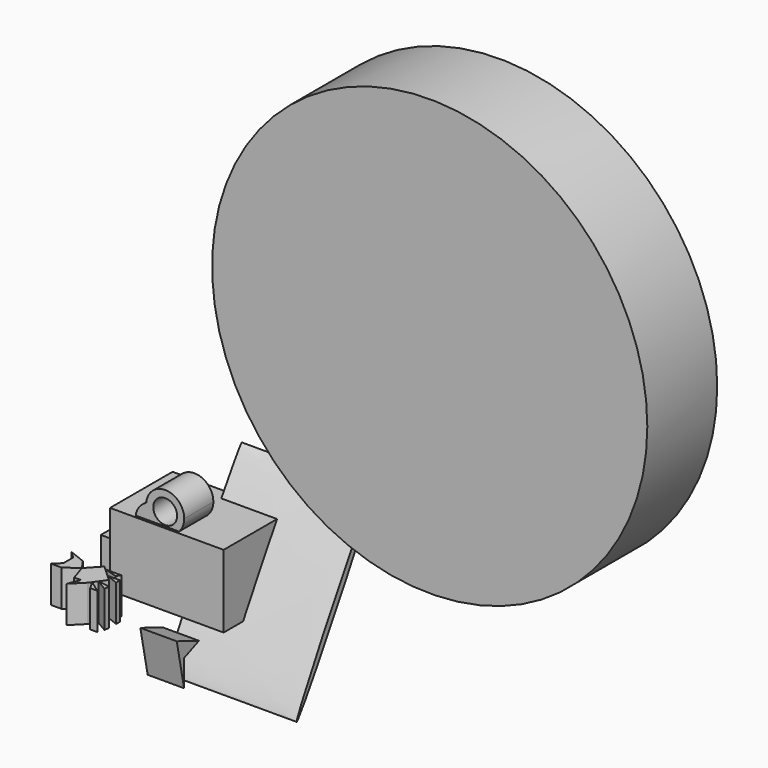
from build123d import *

# Parameters (mm, degrees)
F0_W      = 78.0171081424
F0_H      = 53.7091065198
F1_DEPTH  = 50
F2_W      = 43.2913936675
F2_H      = 23.38198293
F3_DEPTH  = 25
F4_R      = 16.1622843201
F5_DEPTH  = 25
F6_W      = 29.7429226339
F6_H      = 35.126041621
F7_DEPTH  = 25
F1_FACE_W = 78.0171081424
F1_FACE_H = 50
F9_DEPTH  = 25
F11_DEPTH = 25
F13_DEPTH = 25
F15_DEPTH = 90
F16_R     = 149.4362967726
F17_DEPTH = 30
F19_DEPTH = 30


with BuildPart() as f1:
    # F0 (on Top) → F1 (new body)
    with BuildSketch(Plane.XY):
        with Locations((-0.7131882012, 0.1975884661)):
            Rectangle(F0_W, F0_H)
    extrude(amount=F1_DEPTH)

    # F2 (on Top) → F3 (cut)
    with BuildSketch(Plane.XY):
        with Locations((1.2593660504, -0.1119184308)):
            Rectangle(F2_W, F2_H)
    extrude(amount=F3_DEPTH, mode=Mode.SUBTRACT)

    # F6 (on Top) → F7 (join)
    with BuildSketch(Plane.XY):
        with Locations((-39.1089785844, 0.8506774902)):
            Rectangle(F6_W, F6_H)
    extrude(amount=F7_DEPTH)

    # F8 (on Front) + F1_face (on face) → F9 (join)
    with BuildSketch(Plane.XZ):
        with BuildLine():
            ThreePointArc((3.3052529521, 47.6262945357), (8.1429830955, 52.4153057463), (9.915911021, 58.9875951409))
            ThreePointArc((9.915911021, 58.9875951409), (-2.6518951553, 72.046294914), (-16.1823284794, 59.9878221287))
            ThreePointArc((-16.1823284794, 59.9878221287), (-13.6492071487, 60.9517573762), (-10.9743377972, 61.3887342513))
            ThreePointArc((-10.9743377972, 61.3887342513), (-1.9383692631, 67.079241852), (5.0298340639, 58.9875951409))
            ThreePointArc((5.0298340639, 58.9875951409), (4.3308110545, 55.678445285), (2.3531799715, 52.9347103786))
            ThreePointArc((2.3531799715, 52.9347103786), (3.068034148, 50.4889118941), (3.3091991882, 47.9522238677))
            ThreePointArc((3.3091991882, 47.9522238677), (3.308212593, 47.7892472572), (3.3052529521, 47.6262945357))
        make_face()
        with BuildLine():
            ThreePointArc((-10.9743377972, 61.3887342513), (-13.6492071487, 60.9517573762), (-16.1823284794, 59.9878221287))
            ThreePointArc((-16.1823284794, 59.9878221287), (-10.1524259154, 47.9522238677), (3.3052529521, 47.6262945357))
            ThreePointArc((3.3052529521, 47.6262945357), (3.308212593, 47.7892472572), (3.3091991882, 47.9522238677))
            ThreePointArc((3.3091991882, 47.9522238677), (3.068034148, 50.4889118941), (2.3531799715, 52.9347103786))
            ThreePointArc((2.3531799715, 52.9347103786), (-7.5351904678, 52.0782178864), (-10.9743377972, 61.3887342513))
        make_face()
        with BuildLine():
            ThreePointArc((3.3052529521, 47.6262945357), (-10.1524259154, 47.9522238677), (-16.1823284794, 59.9878221287))
            ThreePointArc((-16.1823284794, 59.9878221287), (-17.3631683399, 36.5847024087), (3.3052529521, 47.6262945357))
        make_face()
    with BuildSketch(Plane(origin=(-0.7131882012, 27.052141726, 25), x_dir=(-1, 0, 0), z_dir=(0, 1, 0))):
        Rectangle(F1_FACE_W, F1_FACE_H)
    extrude(amount=F9_DEPTH, dir=(0, -1, 0))

    # F14 (on Right) → F15 (join)
    with BuildSketch(Plane.YZ):
        with BuildLine():
            add(Edge.make_bspline(
                [(-28.6080688917, -36.4129050816), (-25.2024638091, -38.386493406), (22.2351358673, 47.396507483), (69.6727355437, 133.1795083721), (18.8295307847, 49.3700958075), (-32.0136739743, -34.4393167572), (-28.6080688917, -36.4129050816)],
                knots=[0, 0, 0, 2.0943951024, 2.0943951024, 4.1887902048, 4.1887902048, 6.2831853072, 6.2831853072, 6.2831853072], degree=2, weights=[1, 0.5, 1, 0.5, 1, 0.5, 1]))
        make_face()
    extrude(amount=F15_DEPTH)


with BuildPart() as f5:
    # F4 (on Top) → F5 (new body)
    with BuildSketch(Plane.XY):
        with Locations((-19.81501095, 43.3620885015)):
            Circle(F4_R)
    extrude(amount=F5_DEPTH)


with BuildPart() as f11:
    # F10 (on Right) → F11 (new body)
    with BuildSketch(Plane.YZ):
        Polygon((-43.9814738929, -12.6620400697), (-31.2165748328, -7.4221915565), (-50.2845384181, 0), align=None)
        Polygon((-43.9814738929, -12.6620400697), (-50.2845384181, 0), (-43.9814738929, -30.9492647648), align=None)
    extrude(amount=F11_DEPTH)


with BuildPart() as f13:
    # F12 (on Top) → F13 (new body)
    with BuildSketch(Plane.XY):
        Polygon((-42.5507641195, -46.4644171298), (-54.1286543012, -41.8658778071), (-49.1468980908, -46.4644171298), (-49.1468980908, -54.8950769007), (-54.1286543012, -59.493612498), (-46.8476302922, -59.493612498), (-37.8421545029, -53.1706213951), align=None)
    extrude(amount=F13_DEPTH)


with BuildPart() as f13b:
    # F12 (on Top) → F13, piece 2 (new body)
    with BuildSketch(Plane.XY):
        Polygon((-15.9990880638, -46.4644171298), (-27.0385400409, -46.4644171298), (-17.9053156136, -49.1292272691), align=None)
    extrude(amount=F13_DEPTH)


with BuildPart() as f13c:
    # F12 (on Top) → F13, piece 3 (new body)
    with BuildSketch(Plane.XY):
        Polygon((-12.9333948717, -51.4816758476), (-21.6031706718, -51.4816758476), (-12.9333948717, -54.8950769007), align=None)
    extrude(amount=F13_DEPTH)


with BuildPart() as f13d:
    # F12 (on Top) → F13, piece 4 (new body)
    with BuildSketch(Plane.XY):
        Polygon((-14.9109957364, -68.5460207202), (-23.3513476815, -62.5083555335), (-19.8312066495, -68.5460207202), align=None)
    extrude(amount=F13_DEPTH)


with BuildPart() as f13e:
    # F12 (on Top) → F13, piece 5 (new body)
    with BuildSketch(Plane.XY):
        Polygon((-29.529418146, -44.1651474684), (-37.8421545029, -53.1706213951), (-34.201644361, -64.2837584019), (-29.529418146, -64.2837584019), (-24.6213525534, -64.2837584019), (-23.3513476815, -62.5083555335), (-21.315818997, -59.662788918), (-21.6031706718, -59.493612498), (-21.2354905552, -59.5504938007), (-17.9053156136, -54.8950769007), (-21.6031706718, -51.4816758476), (-27.0385400409, -46.4644171298), align=None)
        Polygon((-24.6213525534, -64.2837584019), (-29.529418146, -64.2837584019), (-32.7962928402, -72.5088737686), align=None)
        Polygon((-12.9333948717, -60.8348548412), (-21.2354905552, -59.5504938007), (-21.315818997, -59.662788918), (-13.4669514018, -64.2837584019), align=None)
        Polygon((-21.315818997, -59.662788918), (-21.2354905552, -59.5504938007), (-21.6031706718, -59.493612498), align=None)
    extrude(amount=F13_DEPTH)


with BuildPart() as f17:
    # F16 (on Front) → F17 (new body, symmetric)
    with BuildSketch(Plane.XZ):
        with Locations((182.485088706, 221.3477343321)):
            Circle(F16_R)
    extrude(amount=F17_DEPTH, both=True)

    # F18 (on face) → F19 (join)
    with BuildSketch(Plane.XZ.offset(30)):
        Polygon((124.3307366967, 330.522865057), (93.8902646303, 165.1210784912), (222.3787158728, 127.0541101694), (245.722129941, 281.3443541527), align=None)
    extrude(amount=-F19_DEPTH)


solid = Compound([f1.part, f5.part, f11.part, f13.part, f13b.part, f13c.part, f13d.part, f13e.part, f17.part])
